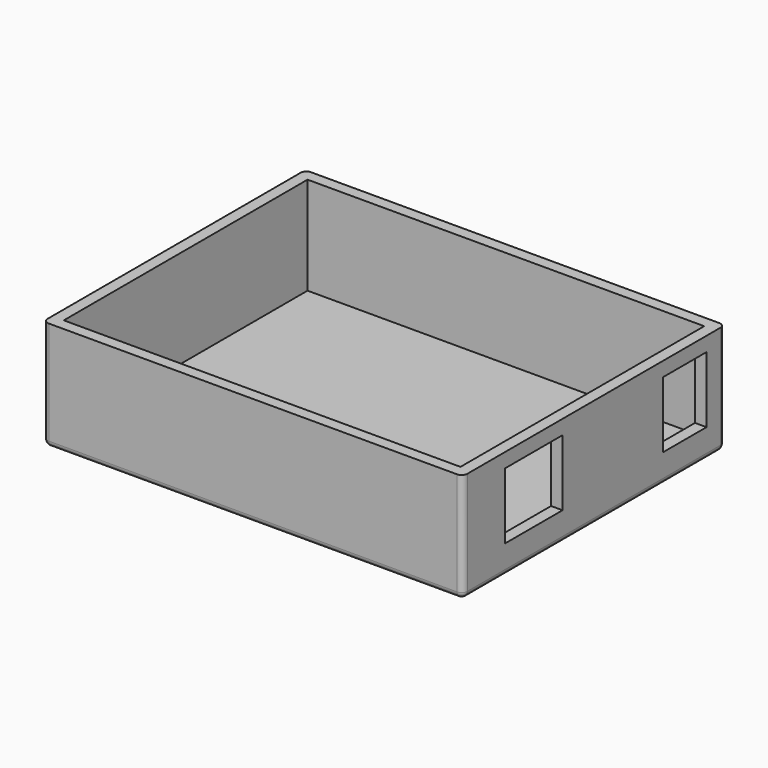
from build123d import *

# Parameters (mm, degrees)
F0_W     = 73
F0_H     = 57
F1_DEPTH = 19
F2_T     = -2
F3_W     = 12.5
F3_H     = 11.5
F5_DEPTH = 25
F4_W     = 9.5
F4_H     = 11.5
F6_DEPTH = 25
F7_R     = 1


with BuildPart() as f1:
    # F0 (on Top) → F1 (new body)
    with BuildSketch(Plane.XY):
        Rectangle(F0_W, F0_H)
    extrude(amount=F1_DEPTH)

    # F2
    f2_openings = [f1.faces().sort_by_distance(p)[0] for p in [
        (0, 0, 19),
    ]]
    offset(amount=F2_T, openings=f2_openings)

    # F3 (on face) → F5 (cut)
    with BuildSketch(Plane.YZ.offset(36.5)):
        with Locations((-13.05, 10.75)):
            Rectangle(F3_W, F3_H)
    extrude(amount=-F5_DEPTH, mode=Mode.SUBTRACT)

    # F4 (on face) → F6 (cut)
    with BuildSketch(Plane.YZ.offset(36.5)):
        with Locations((19.75, 10.75)):
            Rectangle(F4_W, F4_H)
    extrude(amount=-F6_DEPTH, mode=Mode.SUBTRACT)

    # F7
    f7_edges = [f1.edges().sort_by_distance(p)[0] for p in [
        (0, -28.5, 0),
        (0, 28.5, 0),
        (-36.5, 0, 0),
        (36.5, -28.5, 9.5),
        (36.5, 0, 0),
        (-36.5, -28.5, 9.5),
        (36.5, 28.5, 9.5),
        (-36.5, 28.5, 9.5),
    ]]
    fillet(f7_edges, radius=F7_R)


solid = f1.part
